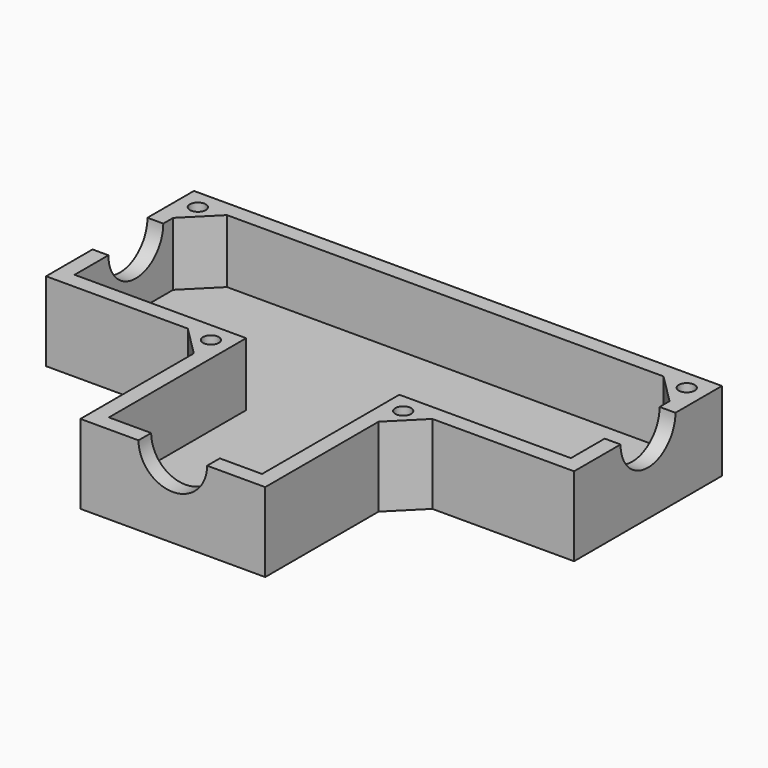
from build123d import *

# Parameters (mm, degrees)
F1_DEPTH  = 7.5
F2_T      = -1.5
F4_DEPTH  = 7.5
F6_DEPTH  = 3
F7_R      = 3.25
F8_DEPTH  = 32.25
F9_R      = 3.25
F10_DEPTH = 50.001


with BuildPart() as f1:
    # F0 (on Top) → F1 (new body)
    with BuildSketch(Plane.XY):
        Polygon((25, -8.75), (25, 8.75), (8.75, 8.75), (-8.75, 8.75), (-25, 8.75), (-25, -8.75), (-8.75, -8.75), (-8.75, -25), (0, -25), (8.75, -25), (8.75, -8.75), align=None)
    extrude(amount=F1_DEPTH)

    # F2
    f2_openings = [f1.faces().sort_by_distance(p)[0] for p in [
        (0, -4.139151, 7.5),
    ]]
    offset(amount=F2_T, openings=f2_openings, kind=Kind.INTERSECTION)

    # F3 (on face) → F4 (join, through all)
    with BuildSketch(Plane.XY.offset(7.5)):
        Polygon((-23.5, 7.25), (-23.5, 4.4215728753), (-20.6715728753, 7.25), align=None)
        Polygon((-8.75, -8.75), (-11.5784271247, -8.75), (-8.75, -11.5784271247), align=None)
        Polygon((23.5, 7.25), (20.6715728753, 7.25), (23.5, 4.4215728753), align=None)
        Polygon((8.75, -11.5784271247), (11.5784271247, -8.75), (8.75, -8.75), align=None)
    extrude(amount=-F4_DEPTH)

    # F5 (on face) → F6 (cut)
    with BuildSketch(Plane.XY.offset(7.5)):
        with BuildLine():
            ThreePointArc((-9.6338834765, -9.6338834765), (-8.8165408163, -9.79646304), (-8.3535533906, -9.1035533906))
            ThreePointArc((-8.3535533906, -9.1035533906), (-9.3905659649, -8.4106437412), (-9.6338834765, -9.6338834765))
        make_face()
        with BuildLine():
            ThreePointArc((-22.6161165235, 6.3661165235), (-22.45353696, 6.6094340351), (-22.3964466094, 6.8964466094))
            ThreePointArc((-22.3964466094, 6.8964466094), (-23.8393562588, 7.1834591837), (-22.6161165235, 6.3661165235))
        make_face()
        with BuildLine():
            ThreePointArc((9.6338834765, -9.6338834765), (9.79646304, -9.3905659649), (9.8535533906, -9.1035533906))
            ThreePointArc((9.8535533906, -9.1035533906), (8.4106437412, -8.8165408163), (9.6338834765, -9.6338834765))
        make_face()
        with BuildLine():
            ThreePointArc((22.6161165235, 6.3661165235), (23.4334591837, 6.20353696), (23.8964466094, 6.8964466094))
            ThreePointArc((23.8964466094, 6.8964466094), (22.8594340351, 7.5893562588), (22.6161165235, 6.3661165235))
        make_face()
    extrude(amount=-F6_DEPTH, mode=Mode.SUBTRACT)

    # F7 (on face) → F8 (cut, through all)
    with BuildSketch(Plane.XZ.offset(25)):
        with Locations((0, 7.5)):
            Circle(F7_R)
    extrude(amount=-F8_DEPTH, mode=Mode.SUBTRACT)

    # F9 (on face) → F10 (cut, through all)
    with BuildSketch(Plane(origin=(-25, 0, 0), x_dir=(0, -1, 0), z_dir=(-1, 0, 0))):
        with Locations((0, 7.5)):
            Circle(F9_R)
    extrude(amount=-F10_DEPTH, mode=Mode.SUBTRACT)


solid = f1.part
